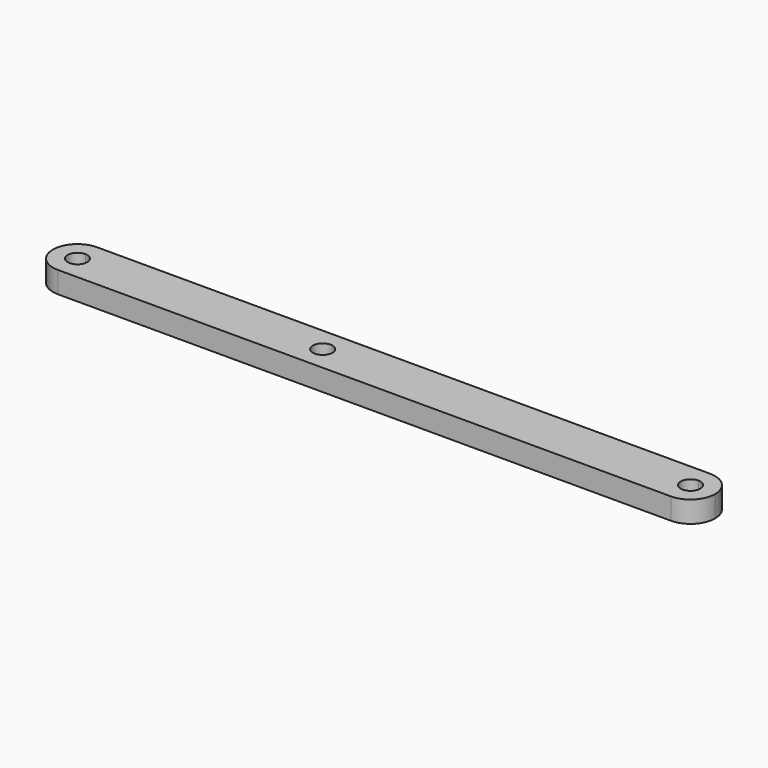
from build123d import *

# Parameters (mm, degrees)
F1_DEPTH = 3.5
F3_DEPTH = 3.501


with BuildPart() as f1:
    # F0 (on Top) → F1 (new body)
    with BuildSketch(Plane.XY):
        with BuildLine():
            ThreePointArc((50, 4), (46, 0), (50, -4))
            Line((50, -4), (50, 4))
        make_face()
        with BuildLine():
            Line((-50, -4), (50, -4))
            ThreePointArc((50, -4), (46, 0), (50, 4))
            Line((50, 4), (-50, 4))
            ThreePointArc((-50, 4), (-47.1715728753, 2.8284271247), (-46, 0))
            ThreePointArc((-46, 0), (-47.1715728753, -2.8284271247), (-50, -4))
        make_face()
        with BuildLine():
            Line((50, 4), (50, -4))
            ThreePointArc((50, -4), (52.8284271247, -2.8284271247), (54, 0))
            ThreePointArc((54, 0), (52.8284271247, 2.8284271247), (50, 4))
        make_face()
        with BuildLine():
            ThreePointArc((-50, 4), (-54, 0), (-50, -4))
            Line((-50, -4), (-50, 4))
        make_face()
        with BuildLine():
            Line((-50, 4), (-50, -4))
            ThreePointArc((-50, -4), (-47.1715728753, -2.8284271247), (-46, 0))
            ThreePointArc((-46, 0), (-47.1715728753, 2.8284271247), (-50, 4))
        make_face()
    extrude(amount=F1_DEPTH)

    # F2 (on face) → F3 (cut, through all)
    with BuildSketch(Plane.XY.offset(3.5)):
        with BuildLine():
            ThreePointArc((-48.4, 0), (-48.8686291501, 1.1313708499), (-50, 1.6))
            Line((-50, 1.6), (-50, 0))
            Line((-50, 0), (-48.4, 0))
        make_face()
        with BuildLine():
            Line((-50, 0), (-50, 1.6))
            ThreePointArc((-50, 1.6), (-51.6, 0), (-50, -1.6))
            Line((-50, -1.6), (-50, 0))
        make_face()
        with BuildLine():
            ThreePointArc((-8.4, 0), (-10, 1.6), (-11.6, 0))
            ThreePointArc((-11.6, 0), (-10, -1.6), (-8.4, 0))
        make_face()
        with BuildLine():
            Line((50, -1.6), (50, 1.6))
            ThreePointArc((50, 1.6), (48.4, 0), (50, -1.6))
        make_face()
        with BuildLine():
            ThreePointArc((51.6, 0), (51.1313708499, 1.1313708499), (50, 1.6))
            Line((50, 1.6), (50, -1.6))
            ThreePointArc((50, -1.6), (51.1313708499, -1.1313708499), (51.6, 0))
        make_face()
        with BuildLine():
            Line((-48.4, 0), (-50, 0))
            Line((-50, 0), (-50, -1.6))
            ThreePointArc((-50, -1.6), (-48.8686291501, -1.1313708499), (-48.4, 0))
        make_face()
    extrude(amount=-F3_DEPTH, mode=Mode.SUBTRACT)


solid = f1.part
